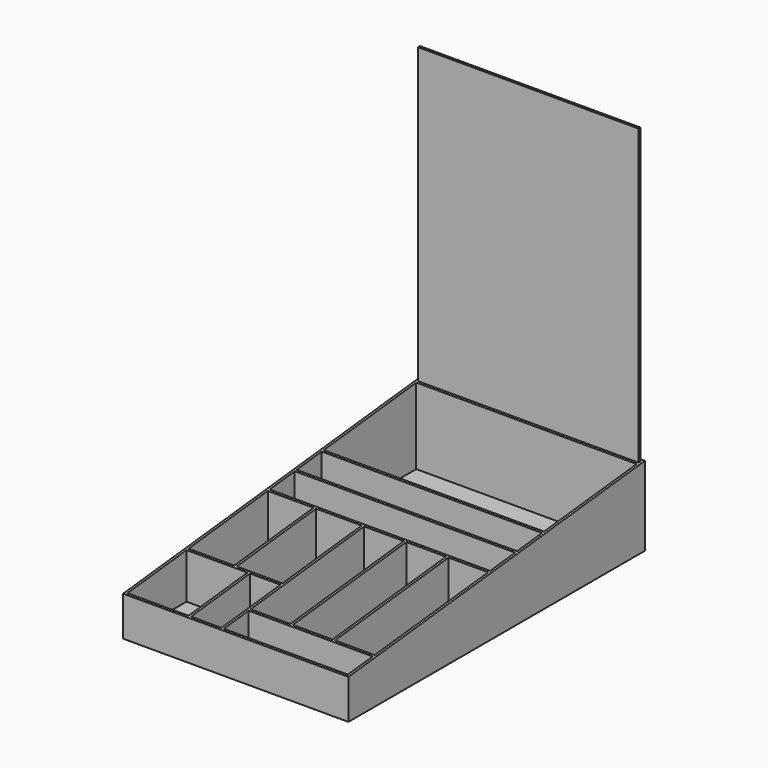
from build123d import *

# Parameters (mm, degrees)
PAD_DEPTH     = 142
SKETCH001_W   = 278
SKETCH001_H   = 3
SKETCH001_H_2 = 146
SKETCH001_H_3 = 39.5
SKETCH001_W_2 = 57.75
SKETCH001_H_4 = 125
SKETCH001_W_3 = 77
SKETCH001_H_5 = 93.1
SKETCH001_W_4 = 38.5
SKETCH001_W_5 = 50.17
SKETCH001_H_6 = 179
SKETCH001_W_6 = 156.5
SKETCH001_H_7 = 39.1
POCKET_DEPTH  = 100
SKETCH002_W   = 278
SKETCH002_H   = 3
PAD001_DEPTH  = 464.1


with BuildPart() as base:
    # Sketch → Pad (new body, symmetric)
    with BuildSketch(Plane.YZ):
        Polygon((-233.55, 47), (-233.55, -3), (233.55, -3), (233.55, 97), align=None)
    extrude(amount=PAD_DEPTH, both=True)

    # Sketch001 → Pocket (cut)
    with BuildSketch(Plane.XY):
        with Locations((0, 229.05)):
            Rectangle(SKETCH001_W, SKETCH001_H)
        with Locations((0, 151.55)):
            Rectangle(SKETCH001_W, SKETCH001_H_2)
        with Locations((0, 55.8)):
            Rectangle(SKETCH001_W, SKETCH001_H_3)
        with Locations((0, 13.3)):
            Rectangle(SKETCH001_W, SKETCH001_H_3)
        with Locations((-110.125, -71.95)):
            Rectangle(SKETCH001_W_2, SKETCH001_H_4)
        with Locations((-49.375, -71.95)):
            Rectangle(SKETCH001_W_2, SKETCH001_H_4)
        with Locations((-100.5, -184)):
            Rectangle(SKETCH001_W_3, SKETCH001_H_5)
        with Locations((-39.75, -184)):
            Rectangle(SKETCH001_W_4, SKETCH001_H_5)
        with Locations((7.585, -98.95)):
            Rectangle(SKETCH001_W_5, SKETCH001_H_6)
        with Locations((60.755, -98.95)):
            Rectangle(SKETCH001_W_5, SKETCH001_H_6)
        with Locations((113.925, -98.95)):
            Rectangle(SKETCH001_W_5, SKETCH001_H_6)
        with Locations((60.75, -211)):
            Rectangle(SKETCH001_W_6, SKETCH001_H_7)
    extrude(amount=POCKET_DEPTH, mode=Mode.SUBTRACT)


with BuildPart() as panel_lateral:
    # Sketch002 → Pad001 (new body)
    with BuildSketch(Plane.XY):
        with Locations((0, 229.05)):
            Rectangle(SKETCH002_W, SKETCH002_H)
    extrude(amount=PAD001_DEPTH)


with BuildPart() as panel_lateral_1:
    # Body001 placement: moved
    add(panel_lateral.part.moved(Location((0, 0, 3))))


solid = Compound([base.part, panel_lateral_1.part])
